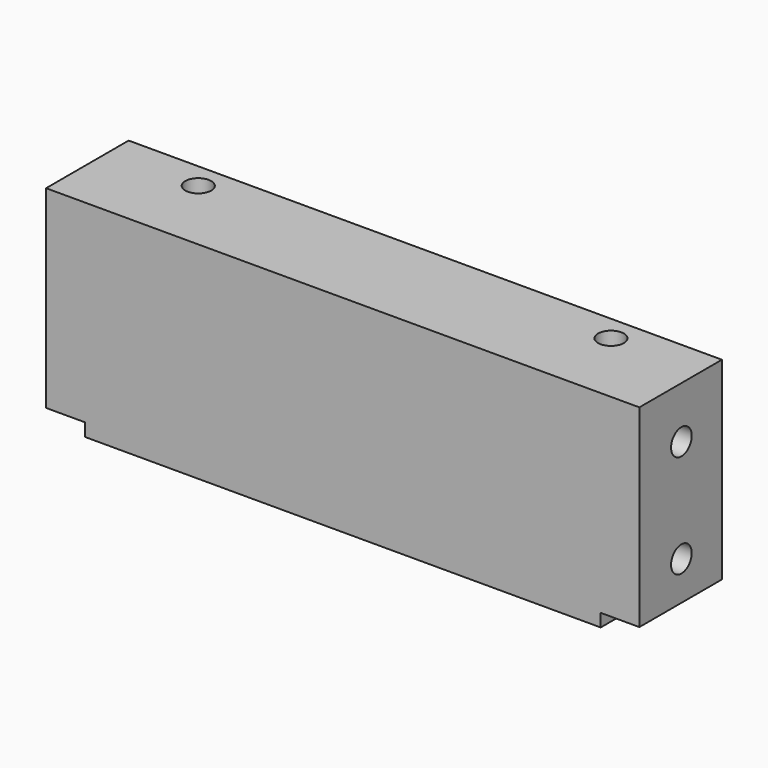
from build123d import *

# Parameters (mm, degrees)
F0_W     = 25.4
F0_H     = 50.8
F1_DEPTH = 146.05
F2_W     = 9.525
F2_H     = 25.4
F3_DEPTH = 3.175
F5_D     = 6.35
F5_DEPTH = 38.1
F5_TIP   = 1.9077324654
F7_D     = 6.35
F7_DEPTH = 38.1
F7_TIP   = 1.9077324654
F9_D     = 6.3754


with BuildPart() as f1:
    # F0 (on Right) → F1 (new body)
    with BuildSketch(Plane.YZ):
        with Locations((-0.2286629751, 10.6222124508)):
            Rectangle(F0_W, F0_H)
    extrude(amount=F1_DEPTH)

    # F2 (on face) → F3 (cut)
    with BuildSketch(Plane(origin=(0, 0, -14.7777875492), x_dir=(1, 0, 0), z_dir=(0, 0, -1))):
        with Locations((141.2875, 0.2286629751)):
            Rectangle(F2_W, F2_H)
        with Locations((4.7625, 0.2286629751)):
            Rectangle(F2_W, F2_H)
    extrude(amount=-F3_DEPTH, mode=Mode.SUBTRACT)

    # F5
    with Locations(Plane.YZ.offset(146.05)):
        with Locations((0, 23.3222124508), (0, -2.0777875492)):
            Hole(F5_D / 2, depth=F5_DEPTH)
            with Locations((0, 0, -(F5_DEPTH + F5_TIP / 2))):  # 118° drill point
                Cone(0, F5_D / 2, F5_TIP, mode=Mode.SUBTRACT)

    # F7
    with Locations(Plane(origin=(0, 0, 0), x_dir=(0, -1, 0), z_dir=(-1, 0, 0))):
        with Locations((0.2286629751, 23.3222124508), (0.2286629751, -2.0777875492)):
            Hole(F7_D / 2, depth=F7_DEPTH)
            with Locations((0, 0, -(F7_DEPTH + F7_TIP / 2))):  # 118° drill point
                Cone(0, F7_D / 2, F7_TIP, mode=Mode.SUBTRACT)

    # F9 (through all)
    with Locations(Plane(origin=(0, 0, -14.7777875492), x_dir=(1, 0, 0), z_dir=(0, 0, -1))):
        with Locations((123.825, -6.1213370249), (22.225, -6.1213370249)):
            Hole(F9_D / 2)


solid = f1.part
